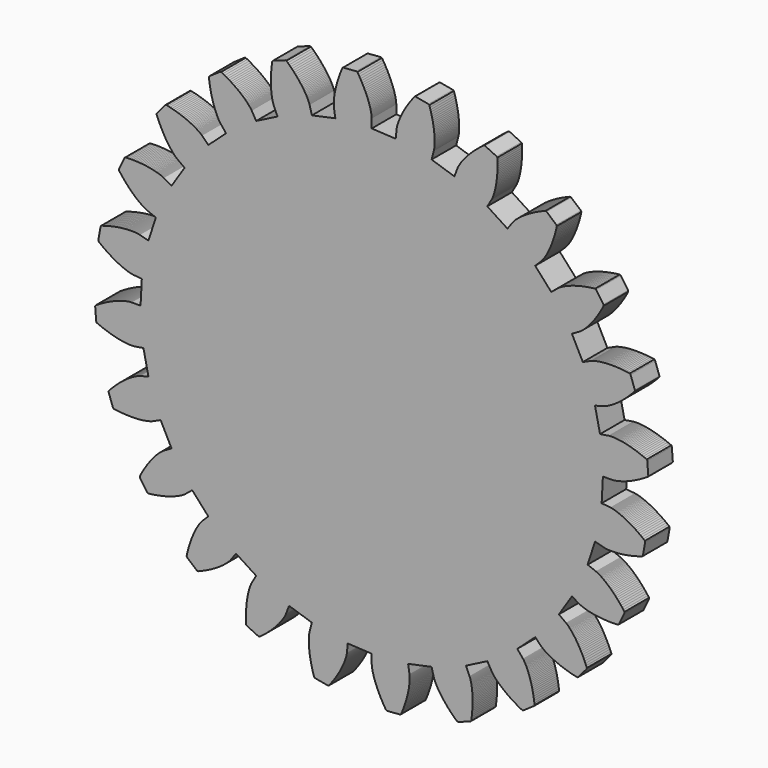
from build123d import *

# Parameters (mm, degrees)
F1_DEPTH = 6.35


with BuildPart() as f1:
    # F0 (on Front) → F1 (new body)
    with BuildSketch(Plane.XZ):
        Polygon((47.587992, -4.958258), (47.845548, 7.6e-05), (49.75131, 7.6e-05), (49.778742, 0.001346), (49.817604, 0.00414), (49.86688, 0.006934), (49.927586, 0.012268), (49.998198, 0.01938), (50.077954, 0.027508), (50.168886, 0.039954), (50.26947, 0.05367), (50.38123, 0.071704), (50.502134, 0.092532), (50.633198, 0.11717), (50.775184, 0.146126), (50.925298, 0.177876), (51.086842, 0.214706), (51.25753, 0.257632), (51.436854, 0.305892), (51.626846, 0.35847), (51.82522, 0.416382), (52.033246, 0.480898), (52.249654, 0.552526), (52.475714, 0.629742), (52.711426, 0.713562), (52.953742, 0.804748), (53.205964, 0.904062), (53.465298, 1.00998), (53.733776, 1.124534), (54.00962, 1.246962), (54.293084, 1.378026), (54.584168, 1.517218), (54.883126, 1.666062), (55.188942, 1.823034), (55.50187, 1.989912), (55.821402, 2.166442), (56.146776, 2.35237), (56.480532, 2.549474), (56.818098, 2.75623), (57.162268, 2.973908), (57.238214, 3.185998), (57.02587, 5.859348), (56.918682, 6.056452), (56.543524, 6.217742), (56.177002, 6.367856), (55.818862, 6.509842), (55.467326, 6.642176), (55.124426, 6.766382), (54.78813, 6.881952), (54.461486, 6.989648), (54.143224, 7.090232), (53.834614, 7.180656), (53.532608, 7.266508), (53.242032, 7.34347), (52.95933, 7.414082), (52.685264, 7.478598), (52.420596, 7.53651), (52.167104, 7.587564), (51.92174, 7.634554), (51.686282, 7.675702), (51.461492, 7.711262), (51.245084, 7.741742), (51.039852, 7.768158), (50.844018, 7.791526), (50.659614, 7.809306), (50.484354, 7.824546), (50.319254, 7.835468), (50.164568, 7.84512), (50.021312, 7.850708), (49.887708, 7.855026), (49.765026, 7.856296), (49.651996, 7.855026), (49.550142, 7.853502), (49.45921, 7.850708), (49.37793, 7.84639), (49.307826, 7.842326), (49.24712, 7.838262), (49.19886, 7.834198), (49.160252, 7.82988), (49.131296, 7.82734), (49.113262, 7.824546), (47.250426, 7.526858), (46.215376, 12.383084), (48.038334, 12.872034), (48.055098, 12.876352), (48.08253, 12.886004), (48.119614, 12.89718), (48.166604, 12.913436), (48.222992, 12.934264), (48.289286, 12.958902), (48.363708, 12.987858), (48.449052, 13.022402), (48.543032, 13.06228), (48.646156, 13.107746), (48.757662, 13.160324), (48.877804, 13.218236), (49.00709, 13.281482), (49.145012, 13.353364), (49.289792, 13.430326), (49.44397, 13.515924), (49.60526, 13.608126), (49.774932, 13.707186), (49.951208, 13.816152), (50.135612, 13.931976), (50.327382, 14.057452), (50.525756, 14.189786), (50.729718, 14.331518), (50.941808, 14.483156), (51.15847, 14.644446), (51.382752, 14.813864), (51.611606, 14.992934), (51.846048, 15.18318), (52.08684, 15.382824), (52.332458, 15.592374), (52.581886, 15.812846), (52.836648, 16.04424), (53.095982, 16.287064), (53.359126, 16.540556), (53.625064, 16.805224), (53.894812, 17.080814), (54.169386, 17.367326), (54.444976, 17.666284), (54.462756, 17.891074), (53.567152, 20.418374), (53.411196, 20.582458), (53.00759, 20.64037), (52.614906, 20.69117), (52.231874, 20.735112), (51.85824, 20.772704), (51.494512, 20.80293), (51.140436, 20.827568), (50.797282, 20.847126), (50.46378, 20.860842), (50.141454, 20.87024), (49.828526, 20.873034), (49.526774, 20.873034), (49.23569, 20.867446), (48.95502, 20.859318), (48.684764, 20.847126), (48.425684, 20.830362), (48.176256, 20.812582), (47.939274, 20.790484), (47.71169, 20.766862), (47.495536, 20.740954), (47.290304, 20.714792), (47.09574, 20.685836), (46.912352, 20.655356), (46.73887, 20.62386), (46.57631, 20.59211), (46.426196, 20.56163), (46.28548, 20.52988), (46.15467, 20.49813), (46.036052, 20.468158), (45.92734, 20.439202), (45.829296, 20.409992), (45.741158, 20.38383), (45.663942, 20.359192), (45.597902, 20.33684), (45.541514, 20.31779), (45.494524, 20.30001), (45.457186, 20.28604), (45.431024, 20.276642), (45.414514, 20.26953), (43.69214, 19.500418), (41.434842, 23.922812), (43.070602, 24.866676), (43.085842, 24.876582), (43.10921, 24.891568), (43.14223, 24.912142), (43.182108, 24.939574), (43.231892, 24.974118), (43.289804, 25.01552), (43.354574, 25.06378), (43.427726, 25.118898), (43.507482, 25.180874), (43.59562, 25.252502), (43.689346, 25.331242), (43.791454, 25.417856), (43.898896, 25.512852), (44.01472, 25.617754), (44.134354, 25.729514), (44.261354, 25.851942), (44.393434, 25.982752), (44.531102, 26.123468), (44.673342, 26.273836), (44.822186, 26.433602), (44.97357, 26.60302), (45.130796, 26.783614), (45.292086, 26.97386), (45.457186, 27.174774), (45.625334, 27.385848), (45.797546, 27.60759), (45.972552, 27.840508), (46.150352, 28.084348), (46.330946, 28.339364), (46.513064, 28.606826), (46.697468, 28.883686), (46.883396, 29.172992), (47.071102, 29.474998), (47.259824, 29.786402), (47.448546, 30.111268), (47.638792, 30.447818), (47.827514, 30.796306), (48.01776, 31.15597), (47.976358, 31.377712), (46.456676, 33.587004), (46.263636, 33.704098), (45.859776, 33.655584), (45.467092, 33.603514), (45.08533, 33.547126), (44.71449, 33.48642), (44.354826, 33.421396), (44.007608, 33.354086), (43.670042, 33.283982), (43.344668, 33.21083), (43.030724, 33.136408), (42.728718, 33.059192), (42.436618, 32.980452), (42.156964, 32.900696), (41.888232, 32.819162), (41.630676, 32.736612), (41.384042, 32.654062), (41.14833, 32.572782), (40.92354, 32.490232), (40.711196, 32.408698), (40.508758, 32.327418), (40.317242, 32.247408), (40.136648, 32.169176), (39.96723, 32.09323), (39.808734, 32.018808), (39.65989, 31.945656), (39.521968, 31.876568), (39.393952, 31.809258), (39.276858, 31.745758), (39.169162, 31.685052), (39.072896, 31.628664), (38.984758, 31.57634), (38.907542, 31.52808), (38.838708, 31.483884), (38.779526, 31.44553), (38.729742, 31.41251), (38.689864, 31.383554), (38.658114, 31.361202), (38.63627, 31.343676), (38.62103, 31.332246), (37.155958, 30.143018), (33.832114, 33.832114), (35.166376, 35.166376), (35.178568, 35.180092), (35.197618, 35.200412), (35.224034, 35.229368), (35.257054, 35.266706), (35.295662, 35.312426), (35.339858, 35.36729), (35.390658, 35.43079), (35.44603, 35.502418), (35.507752, 35.583698), (35.574046, 35.67463), (35.645674, 35.775214), (35.720096, 35.885704), (35.799852, 36.005592), (35.88418, 36.136402), (35.971048, 36.27534), (36.06198, 36.427232), (36.155452, 36.586998), (36.252226, 36.75921), (36.351286, 36.941074), (36.45314, 37.134114), (36.556518, 37.336552), (36.66142, 37.551436), (36.767592, 37.777496), (36.87478, 38.013208), (36.982476, 38.261112), (37.091442, 38.520192), (37.200154, 38.790448), (37.30912, 39.072896), (37.416562, 39.364996), (37.524004, 39.669542), (37.630176, 39.986534), (37.734824, 40.312924), (37.838202, 40.652014), (37.940056, 41.003296), (38.037846, 41.366008), (38.13462, 41.739134), (38.228092, 42.125214), (38.317754, 42.521962), (38.219964, 42.725924), (36.180598, 44.466586), (35.963936, 44.530086), (35.586492, 44.378448), (35.21997, 44.22681), (34.86564, 44.072632), (34.52401, 43.917946), (34.193302, 43.763768), (33.874786, 43.607812), (33.567446, 43.452364), (33.272552, 43.297932), (32.988834, 43.143754), (32.715784, 42.991862), (32.455434, 42.840732), (32.204736, 42.690364), (31.96623, 42.54152), (31.739154, 42.39674), (31.522492, 42.25323), (31.31599, 42.112768), (31.120156, 41.974846), (30.935498, 41.841242), (30.761762, 41.710432), (30.597932, 41.583686), (30.443754, 41.461004), (30.298974, 41.34391), (30.16537, 41.23088), (30.03964, 41.121914), (29.92534, 41.018536), (29.819168, 40.92227), (29.721632, 40.829814), (29.634764, 40.742946), (29.554754, 40.664714), (29.483126, 40.590292), (29.420896, 40.523998), (29.366032, 40.464562), (29.319042, 40.410968), (29.280434, 40.365502), (29.248684, 40.328164), (29.224046, 40.297684), (29.207536, 40.27584), (29.196614, 40.260854), (28.088412, 38.732536), (23.922812, 41.434842), (24.866676, 43.070602), (24.875058, 43.085842), (24.888774, 43.11048), (24.905284, 43.145024), (24.927382, 43.19049), (24.95329, 43.244084), (24.982246, 43.309108), (25.013996, 43.382006), (25.050064, 43.467604), (25.088418, 43.561076), (25.128296, 43.667248), (25.171476, 43.781548), (25.215418, 43.908548), (25.26063, 44.044946), (25.30889, 44.19252), (25.35588, 44.350762), (25.405664, 44.51891), (25.45367, 44.69798), (25.503454, 44.889496), (25.551714, 45.090664), (25.59972, 45.303008), (25.64671, 45.526274), (25.693446, 45.760462), (25.737642, 46.005826), (25.780314, 46.262112), (25.820192, 46.529574), (25.85753, 46.807958), (25.89309, 47.097264), (25.92484, 47.397492), (25.953796, 47.707626), (25.978942, 48.029952), (25.999262, 48.363708), (26.016026, 48.706608), (26.026948, 49.060684), (26.033806, 49.425936), (26.036854, 49.80084), (26.032536, 50.18692), (26.022884, 50.583668), (26.006374, 50.990068), (25.860324, 51.16228), (23.438942, 52.315948), (23.213136, 52.321536), (22.887762, 52.077442), (22.573564, 51.835126), (22.271812, 51.595096), (21.981236, 51.35659), (21.701582, 51.122402), (21.43412, 50.889484), (21.17758, 50.66063), (20.93247, 50.434824), (20.698282, 50.211558), (20.474762, 49.99388), (20.261402, 49.780012), (20.058456, 49.57097), (19.86694, 49.365484), (19.683806, 49.165586), (19.511848, 48.971276), (19.349034, 48.782554), (19.196126, 48.59942), (19.05287, 48.42162), (18.917742, 48.250424), (18.79252, 48.086848), (18.675426, 47.928098), (18.566206, 47.776714), (18.465876, 47.633204), (18.37342, 47.495536), (18.289346, 47.36752), (18.21213, 47.244584), (18.142026, 47.131808), (18.078526, 47.025636), (18.023408, 46.927592), (17.973624, 46.838184), (17.929682, 46.758174), (17.892598, 46.686546), (17.862118, 46.623046), (17.83621, 46.569452), (17.815382, 46.523986), (17.798618, 46.487918), (17.787696, 46.46201), (17.780584, 46.445246), (17.105452, 44.68274), (12.383084, 46.215376), (12.872034, 48.038334), (12.876352, 48.056368), (12.88194, 48.084054), (12.890068, 48.120884), (12.89972, 48.170668), (12.910896, 48.22858), (12.921818, 48.298684), (12.934264, 48.378948), (12.94671, 48.46988), (12.958902, 48.570464), (12.970332, 48.68197), (12.981254, 48.804652), (12.992176, 48.938256), (13.000558, 49.081512), (13.008686, 49.23569), (13.014274, 49.401298), (13.016814, 49.577574), (13.018084, 49.763756), (13.015798, 49.96086), (13.01148, 50.167362), (13.001574, 50.38504), (12.989382, 50.612624), (12.974142, 50.85113), (12.953568, 51.099034), (12.92766, 51.358114), (12.89718, 51.626846), (12.862636, 51.90523), (12.821234, 52.193012), (12.774498, 52.492224), (12.720904, 52.799564), (12.661468, 53.117826), (12.596698, 53.44447), (12.523546, 53.780512), (12.44252, 54.12519), (12.355398, 54.47952), (12.259132, 54.843248), (12.155754, 55.215358), (12.044248, 55.595596), (11.922836, 55.983962), (11.736908, 56.112486), (9.100642, 56.599912), (8.88144, 56.546318), (8.629218, 56.226786), (8.387918, 55.911064), (8.158048, 55.60093), (7.938846, 55.296384), (7.73082, 54.996156), (7.532446, 54.702786), (7.34347, 54.414496), (7.165924, 54.133318), (6.996252, 53.857982), (6.837756, 53.588996), (6.686118, 53.327376), (6.545656, 53.07236), (6.413576, 52.825726), (6.287846, 52.586204), (6.172276, 52.353032), (6.06458, 52.128496), (5.963996, 51.911834), (5.870524, 51.702792), (5.784926, 51.50264), (5.70644, 51.311124), (5.633542, 51.12799), (5.568518, 50.954508), (5.507812, 50.789154), (5.454218, 50.633198), (5.405958, 50.485624), (5.363286, 50.347956), (5.324932, 50.22121), (5.291658, 50.102592), (5.262702, 49.99388), (5.238064, 49.89482), (5.217236, 49.805158), (5.200726, 49.726418), (5.185486, 49.657584), (5.174564, 49.598402), (5.166436, 49.550142), (5.15653, 49.482832), (5.153736, 49.464798), (4.958156, 47.587992), (7.6e-05, 47.845548), (7.6e-05, 49.75131), (-0.001448, 49.778742), (-0.004242, 49.817604), (-0.007036, 49.86688), (-0.01237, 49.927586), (-0.019482, 49.998198), (-0.02761, 50.077954), (-0.039802, 50.168886), (-0.053518, 50.26947), (-0.071552, 50.38123), (-0.09238, 50.502134), (-0.117018, 50.633198), (-0.145974, 50.775184), (-0.177724, 50.925298), (-0.214808, 51.086842), (-0.25748, 51.25753), (-0.305994, 51.436854), (-0.358318, 51.626846), (-0.41623, 51.82522), (-0.480746, 52.033246), (-0.552374, 52.249654), (-0.629844, 52.475714), (-0.713664, 52.711426), (-0.804596, 52.953742), (-0.90391, 53.205964), (-1.010082, 53.465298), (-1.124382, 53.733776), (-1.247064, 54.00962), (-1.377874, 54.293084), (-1.51732, 54.584168), (-1.666164, 54.883126), (-1.823136, 55.188942), (-1.990014, 55.50187), (-2.166544, 55.821402), (-2.352218, 56.146776), (-2.549576, 56.480532), (-2.755824, 56.818098), (-2.97401, 57.162268), (-3.185846, 57.238214), (-5.859196, 57.02587), (-6.056554, 56.918682), (-6.21759, 56.543524), (-6.367958, 56.177002), (-6.509944, 55.818862), (-6.642024, 55.467326), (-6.76623, 55.124426), (-6.882054, 54.78813), (-6.989242, 54.461486), (-7.09008, 54.143224), (-7.180758, 53.834614), (-7.26661, 53.532608), (-7.343318, 53.242032), (-7.41393, 52.95933), (-7.478446, 52.685264), (-7.536358, 52.420596), (-7.587666, 52.167104), (-7.634402, 51.92174), (-7.675804, 51.686282), (-7.711364, 51.461492), (-7.741844, 51.245084), (-7.76826, 51.039852), (-7.791374, 50.844018), (-7.809408, 50.659614), (-7.824648, 50.484354), (-7.83557, 50.319254), (-7.844968, 50.164568), (-7.85081, 50.021312), (-7.854874, 49.887708), (-7.856398, 49.765026), (-7.854874, 49.651996), (-7.853604, 49.550142), (-7.85081, 49.45921), (-7.846492, 49.37793), (-7.842174, 49.307826), (-7.838364, 49.24712), (-7.834046, 49.19886), (-7.829982, 49.160252), (-7.827188, 49.131296), (-7.824648, 49.113262), (-7.52696, 47.250426), (-12.383186, 46.215376), (-12.872136, 48.038334), (-12.876454, 48.055098), (-12.885852, 48.08253), (-12.897282, 48.119614), (-12.913538, 48.166604), (-12.934366, 48.222992), (-12.959004, 48.289286), (-12.98796, 48.363708), (-13.022504, 48.449052), (-13.062382, 48.543032), (-13.107848, 48.646156), (-13.160426, 48.757662), (-13.218338, 48.877804), (-13.28133, 49.00709), (-13.353466, 49.145012), (-13.430174, 49.289792), (-13.515518, 49.44397), (-13.607974, 49.60526), (-13.707288, 49.774932), (-13.816254, 49.951208), (-13.931824, 50.135612), (-14.057554, 50.327382), (-14.189888, 50.525756), (-14.33162, 50.729718), (-14.483258, 50.941808), (-14.644548, 51.15847), (-14.813966, 51.382752), (-14.993036, 51.611606), (-15.183282, 51.846048), (-15.382926, 52.08684), (-15.592476, 52.332458), (-15.812948, 52.581886), (-16.044342, 52.836648), (-16.287166, 53.095982), (-16.540658, 53.359126), (-16.805326, 53.625064), (-17.080916, 53.894812), (-17.367174, 54.169386), (-17.666386, 54.444976), (-17.891176, 54.462756), (-20.418476, 53.567152), (-20.58256, 53.411196), (-20.640218, 53.00759), (-20.691018, 52.614906), (-20.735214, 52.231874), (-20.772552, 51.85824), (-20.803032, 51.494512), (-20.82767, 51.140436), (-20.846974, 50.797282), (-20.860944, 50.46378), (-20.870342, 50.141454), (-20.873136, 49.828526), (-20.873136, 49.526774), (-20.867548, 49.23569), (-20.85942, 48.95502), (-20.846974, 48.684764), (-20.830464, 48.425684), (-20.81243, 48.176256), (-20.790586, 47.939274), (-20.766964, 47.71169), (-20.740802, 47.495536), (-20.714894, 47.290304), (-20.685938, 47.09574), (-20.655458, 46.912352), (-20.623708, 46.73887), (-20.591958, 46.57631), (-20.561732, 46.426196), (-20.529982, 46.28548), (-20.498232, 46.15467), (-20.46826, 46.036052), (-20.438796, 45.92734), (-20.410094, 45.829296), (-20.383932, 45.741158), (-20.35904, 45.663942), (-20.336942, 45.597902), (-20.317892, 45.541514), (-20.299858, 45.494524), (-20.286142, 45.457186), (-20.27649, 45.431024), (-20.269632, 45.414514), (-19.50052, 43.69214), (-23.92266, 41.434842), (-24.866778, 43.070602), (-24.87643, 43.085842), (-24.891416, 43.10921), (-24.912244, 43.14223), (-24.939676, 43.182108), (-24.97422, 43.231892), (-25.015622, 43.289804), (-25.063882, 43.354574), (-25.119, 43.427726), (-25.180976, 43.507482), (-25.252604, 43.59562), (-25.33109, 43.689346), (-25.417958, 43.791454), (-25.512954, 43.898896), (-25.617856, 44.01472), (-25.729362, 44.134354), (-25.852044, 44.261354), (-25.982854, 44.393434), (-26.12357, 44.531102), (-26.273684, 44.673342), (-26.43345, 44.822186), (-26.603122, 44.97357), (-26.783462, 45.130796), (-26.973708, 45.292086), (-27.174876, 45.457186), (-27.385696, 45.625334), (-27.607692, 45.797546), (-27.84061, 45.972552), (-28.08445, 46.150352), (-28.339466, 46.330946), (-28.606674, 46.513064), (-28.883788, 46.697468), (-29.173094, 46.883396), (-29.474846, 47.071102), (-29.78625, 47.259824), (-30.111624, 47.448546), (-30.447666, 47.638792), (-30.796408, 47.827514), (-31.156072, 48.01776), (-31.377814, 47.976358), (-33.586928, 46.456676), (-33.704073, 46.263636), (-33.655813, 45.859776), (-33.603463, 45.467092), (-33.546948, 45.08533), (-33.486344, 44.71449), (-33.421574, 44.354826), (-33.354061, 44.007608), (-33.283779, 43.670042), (-33.210729, 43.344668), (-33.136332, 43.030724), (-33.059141, 42.728718), (-32.980605, 42.436618), (-32.900671, 42.156964), (-32.81934, 41.888232), (-32.736688, 41.630676), (-32.654011, 41.384042), (-32.572681, 41.14833), (-32.490029, 40.92354), (-32.408724, 40.711196), (-32.327393, 40.508758), (-32.247484, 40.317242), (-32.168922, 40.136648), (-32.093154, 39.96723), (-32.018732, 39.808734), (-31.945758, 39.65989), (-31.87667, 39.521968), (-31.80936, 39.393952), (-31.74586, 39.276858), (-31.685154, 39.169162), (-31.628766, 39.072896), (-31.576442, 38.984758), (-31.528182, 38.907542), (-31.483986, 38.838708), (-31.445378, 38.779526), (-31.412358, 38.729742), (-31.383402, 38.689864), (-31.361304, 38.658114), (-31.343524, 38.63627), (-31.332348, 38.62103), (-30.14312, 37.155958), (-33.832216, 33.832114), (-35.166173, 35.166376), (-35.179965, 35.178568), (-35.20059, 35.197618), (-35.229571, 35.224034), (-35.266732, 35.257054), (-35.312248, 35.295662), (-35.367366, 35.339858), (-35.430739, 35.390658), (-35.502393, 35.44603), (-35.583724, 35.507752), (-35.674656, 35.574046), (-35.775265, 35.645674), (-35.885526, 35.720096), (-36.005389, 35.799852), (-36.136301, 35.88418), (-36.275467, 35.971048), (-36.427054, 36.06198), (-36.586897, 36.155452), (-36.759159, 36.252226), (-36.941074, 36.351286), (-37.133987, 36.45314), (-37.336552, 36.556518), (-37.551538, 36.66142), (-37.777522, 36.767592), (-38.013183, 36.87478), (-38.261239, 36.982476), (-38.520319, 37.091442), (-38.790397, 37.200154), (-39.072896, 37.30912), (-39.365022, 37.416562), (-39.669593, 37.524004), (-39.98656, 37.630176), (-40.313127, 37.734824), (-40.652141, 37.838202), (-41.00355, 37.940056), (-41.365957, 38.037846), (-41.739414, 38.13462), (-42.125265, 38.228092), (-42.52214, 38.317754), (-42.726102, 38.219964), (-44.466561, 36.180598), (-44.529959, 35.963936), (-44.378372, 35.586492), (-44.226759, 35.21997), (-44.072429, 34.86564), (-43.918099, 34.52401), (-43.763743, 34.193302), (-43.608041, 33.874786), (-43.452313, 33.567446), (-43.297983, 33.272552), (-43.143627, 32.988834), (-42.99204, 32.715784), (-42.840453, 32.455434), (-42.690237, 32.204736), (-42.541419, 31.96623), (-42.39674, 31.739154), (-42.253408, 31.522492), (-42.112844, 31.31599), (-41.975049, 31.120156), (-41.841395, 30.935498), (-41.710483, 30.761762), (-41.583686, 30.597932), (-41.46103, 30.443754), (-41.34391, 30.298974), (-41.230906, 30.16537), (-41.122041, 30.03964), (-41.018689, 29.92534), (-40.922219, 29.819168), (-40.829916, 29.721632), (-40.743099, 29.634764), (-40.664536, 29.554754), (-40.590114, 29.483126), (-40.523973, 29.420896), (-40.464715, 29.366032), (-40.410994, 29.319042), (-40.365502, 29.280434), (-40.328291, 29.248684), (-40.297989, 29.224046), (-40.275942, 29.207536), (-40.260778, 29.196614), (-38.732536, 28.088412), (-41.434842, 23.922812), (-43.070577, 24.866676), (-43.085741, 24.875058), (-43.110556, 24.888774), (-43.145024, 24.905284), (-43.19049, 24.927382), (-43.244211, 24.95329), (-43.308981, 24.982246), (-43.382032, 25.013996), (-43.467452, 25.050064), (-43.561178, 25.088418), (-43.667274, 25.128296), (-43.781675, 25.171476), (-43.908421, 25.215418), (-44.04487, 25.26063), (-44.192317, 25.30889), (-44.350762, 25.35588), (-44.51891, 25.405664), (-44.698056, 25.45367), (-44.889598, 25.503454), (-45.090791, 25.551714), (-45.303034, 25.59972), (-45.526274, 25.64671), (-45.760513, 25.693446), (-46.005826, 25.737642), (-46.262112, 25.780314), (-46.529447, 25.820192), (-46.807831, 25.85753), (-47.097213, 25.89309), (-47.397645, 25.92484), (-47.707702, 25.953796), (-48.03013, 25.978942), (-48.363632, 25.999262), (-48.706761, 26.016026), (-49.060913, 26.026948), (-49.426114, 26.033806), (-49.800942, 26.036854), (-50.186768, 26.032536), (-50.583643, 26.022884), (-50.990195, 26.006374), (-51.162407, 25.860324), (-52.315847, 23.438942), (-52.321358, 23.213136), (-52.077442, 22.887762), (-51.834923, 22.573564), (-51.595147, 22.271812), (-51.356717, 21.981236), (-51.122478, 21.701582), (-50.889586, 21.43412), (-50.660833, 21.17758), (-50.434824, 20.93247), (-50.211584, 20.698282), (-49.993829, 20.474762), (-49.780266, 20.261402), (-49.570792, 20.058456), (-49.365484, 19.86694), (-49.165662, 19.683806), (-48.971352, 19.511848), (-48.782554, 19.349034), (-48.599268, 19.196126), (-48.421519, 19.05287), (-48.250627, 18.917742), (-48.086645, 18.79252), (-47.928174, 18.675426), (-47.776587, 18.566206), (-47.633255, 18.465876), (-47.49546, 18.37342), (-47.367317, 18.289346), (-47.244686, 18.21213), (-47.131681, 18.142026), (-47.02556, 18.078526), (-46.927719, 18.023408), (-46.838133, 17.973624), (-46.758225, 17.929682), (-46.686546, 17.892598), (-46.623199, 17.862118), (-46.569427, 17.83621), (-46.523961, 17.815382), (-46.488121, 17.798618), (-46.461934, 17.787696), (-46.445399, 17.780584), (-44.682918, 17.105452), (-46.215275, 12.383084), (-48.038436, 12.872034), (-48.056343, 12.876352), (-48.083902, 12.88194), (-48.121087, 12.890068), (-48.170719, 12.89972), (-48.22858, 12.910896), (-48.298887, 12.921818), (-48.378796, 12.934264), (-48.469728, 12.94671), (-48.570337, 12.958902), (-48.68197, 12.970332), (-48.804601, 12.981254), (-48.938282, 12.992176), (-49.081588, 13.000558), (-49.235944, 13.008686), (-49.401324, 13.014274), (-49.577701, 13.016814), (-49.763731, 13.018084), (-49.960784, 13.015798), (-50.167489, 13.01148), (-50.385218, 13.001574), (-50.612573, 12.989382), (-50.850978, 12.974142), (-51.09906, 12.953568), (-51.358114, 12.92766), (-51.626821, 12.89718), (-51.905179, 12.862636), (-52.19319, 12.821234), (-52.49225, 12.774498), (-52.799564, 12.720904), (-53.117877, 12.661468), (-53.44447, 12.596698), (-53.78069, 12.523546), (-54.125216, 12.44252), (-54.479368, 12.355398), (-54.843172, 12.259132), (-55.215231, 12.155754), (-55.595571, 12.044248), (-55.984191, 11.922836), (-56.112334, 11.736908), (-56.600166, 9.100642), (-56.54642, 8.88144), (-56.22671, 8.629218), (-55.91114, 8.387918), (-55.601083, 8.158048), (-55.296537, 7.938846), (-54.996131, 7.73082), (-54.702608, 7.532446), (-54.414598, 7.34347), (-54.133471, 7.165924), (-53.857881, 6.996252), (-53.589149, 6.837756), (-53.327351, 6.686118), (-53.072386, 6.545656), (-52.825726, 6.413576), (-52.58595, 6.287846), (-52.353032, 6.172276), (-52.12842, 6.06458), (-51.912063, 5.963996), (-51.702614, 5.870524), (-51.502818, 5.784926), (-51.311251, 5.70644), (-51.12799, 5.633542), (-50.954356, 5.568518), (-50.788976, 5.507812), (-50.633249, 5.454218), (-50.485827, 5.405958), (-50.348007, 5.363286), (-50.221236, 5.324932), (-50.102719, 5.291658), (-49.993829, 5.262702), (-49.894642, 5.238064), (-49.805082, 5.217236), (-49.726494, 5.200726), (-49.65761, 5.185486), (-49.598351, 5.174564), (-49.550117, 5.166436), (-49.482604, 5.15653), (-49.464671, 5.153736), (-47.587789, 4.958156), (-47.845497, 7.6e-05), (-49.75131, 7.6e-05), (-49.778895, -0.001448), (-49.817452, -0.004242), (-49.867083, -0.007036), (-49.927688, -0.01237), (-49.997995, -0.019482), (-50.077903, -0.02761), (-50.168861, -0.039802), (-50.26947, -0.053518), (-50.381078, -0.071552), (-50.502337, -0.09238), (-50.633249, -0.117018), (-50.77521, -0.145974), (-50.925425, -0.177724), (-51.086639, -0.214808), (-51.25753, -0.25748), (-51.436676, -0.305994), (-51.626821, -0.358318), (-51.825246, -0.41623), (-52.033348, -0.480746), (-52.249705, -0.552374), (-52.475714, -0.629844), (-52.71135, -0.713664), (-52.953895, -0.804596), (-53.206066, -0.90391), (-53.465146, -1.010082), (-53.733852, -1.124382), (-54.009468, -1.247064), (-54.293338, -1.377874), (-54.584092, -1.51732), (-54.883126, -1.666164), (-55.189069, -1.823136), (-55.50187, -1.990014), (-55.82158, -2.166544), (-56.146802, -2.352218), (-56.480278, -2.549576), (-56.817895, -2.755824), (-57.162421, -2.97401), (-57.238214, -3.185846), (-57.025997, -5.859196), (-56.918504, -6.056554), (-56.543677, -6.21759), (-56.177104, -6.367958), (-55.818811, -6.509944), (-55.467428, -6.642024), (-55.124299, -6.76623), (-54.788054, -6.882054), (-54.461461, -6.989242), (-54.143123, -7.09008), (-53.834462, -7.180758), (-53.532659, -7.26661), (-53.241905, -7.343318), (-52.959406, -7.41393), (-52.685137, -7.478446), (-52.420571, -7.536358), (-52.167028, -7.587666), (-51.92174, -7.634402), (-51.686079, -7.675804), (-51.461467, -7.711364), (-51.24511, -7.741844), (-51.039801, -7.76826), (-50.844094, -7.791374), (-50.659462, -7.809408), (-50.484456, -7.824648), (-50.319076, -7.83557), (-50.164721, -7.844968), (-50.021439, -7.85081), (-49.887759, -7.854874), (-49.765102, -7.856398), (-49.652098, -7.854874), (-49.550117, -7.853604), (-49.459159, -7.85081), (-49.377854, -7.846492), (-49.307572, -7.842174), (-49.246968, -7.838364), (-49.198708, -7.834046), (-49.160151, -7.829982), (-49.131195, -7.827188), (-49.113262, -7.824648), (-47.250172, -7.52696), (-46.215275, -12.383186), (-48.038436, -12.872136), (-48.054946, -12.876454), (-48.08253, -12.885852), (-48.119716, -12.897282), (-48.166604, -12.913538), (-48.223068, -12.934366), (-48.28921, -12.959004), (-48.363632, -12.98796), (-48.449052, -13.022504), (-48.542804, -13.062382), (-48.646131, -13.107848), (-48.757738, -13.160426), (-48.877652, -13.218338), (-49.007192, -13.28133), (-49.144987, -13.353466), (-49.289665, -13.430174), (-49.443996, -13.515518), (-49.60526, -13.607974), (-49.774729, -13.707288), (-49.951132, -13.816254), (-50.13579, -13.931824), (-50.327357, -14.057554), (-50.525782, -14.189888), (-50.729744, -14.33162), (-50.941935, -14.483258), (-51.158292, -14.644548), (-51.382905, -14.813966), (-51.611682, -14.993036), (-51.845921, -15.183282), (-52.087094, -15.382926), (-52.332382, -15.592476), (-52.58181, -15.812948), (-52.836724, -16.044342), (-53.095804, -16.287166), (-53.359025, -16.540658), (-53.624988, -16.805326), (-53.895092, -17.080916), (-54.16931, -17.367174), (-54.444925, -17.666386), (-54.462832, -17.891176), (-53.567101, -20.418476), (-53.411374, -20.58256), (-53.007616, -20.640218), (-52.614881, -20.691018), (-52.231798, -20.735214), (-51.858342, -20.772552), (-51.494512, -20.803032), (-51.14036, -20.82767), (-50.797257, -20.846974), (-50.46378, -20.860944), (-50.141302, -20.870342), (-49.828501, -20.873136), (-49.526698, -20.873136), (-49.235944, -20.867548), (-48.954817, -20.85942), (-48.684713, -20.846974), (-48.425633, -20.830464), (-48.176231, -20.81243), (-47.939198, -20.790586), (-47.711817, -20.766964), (-47.49546, -20.740802), (-47.290152, -20.714894), (-47.095842, -20.685938), (-46.912581, -20.655458), (-46.738946, -20.623708), (-46.57631, -20.591958), (-46.42612, -20.561732), (-46.285556, -20.529982), (-46.154619, -20.498232), (-46.036128, -20.46826), (-45.927264, -20.438796), (-45.829449, -20.410094), (-45.741234, -20.383932), (-45.664069, -20.35904), (-45.597902, -20.336942), (-45.541387, -20.317892), (-45.49455, -20.299858), (-45.457364, -20.286142), (-45.431151, -20.27649), (-45.414641, -20.269632), (-43.692089, -19.50052), (-41.434842, -23.92266), (-43.070577, -24.866778), (-43.085741, -24.87643), (-43.109159, -24.891416), (-43.142256, -24.912244), (-43.182184, -24.939676), (-43.231841, -24.97422), (-43.289677, -25.015622), (-43.354447, -25.063882), (-43.427523, -25.119), (-43.507431, -25.180976), (-43.59562, -25.252604), (-43.689321, -25.33109), (-43.791302, -25.417958), (-43.898795, -25.512954), (-44.014542, -25.617856), (-44.134456, -25.729362), (-44.261202, -25.852044), (-44.393485, -25.982854), (-44.531331, -26.12357), (-44.673241, -26.273684), (-44.822085, -26.43345), (-44.973672, -26.603122), (-45.130771, -26.783462), (-45.291985, -26.973708), (-45.457364, -27.174876), (-45.625461, -27.385696), (-45.797724, -27.607692), (-45.97273, -27.84061), (-46.150505, -28.08445), (-46.331022, -28.339466), (-46.512937, -28.606674), (-46.697595, -28.883788), (-46.883599, -29.173094), (-47.071051, -29.474846), (-47.259824, -29.78625), (-47.448622, -30.111624), (-47.638792, -30.447666), (-47.827565, -30.796408), (-48.01776, -31.156072), (-47.976409, -31.377814), (-46.456422, -33.586928), (-46.263509, -33.704073), (-45.859751, -33.655813), (-45.466991, -33.603463), (-45.085279, -33.546948), (-44.714592, -33.486344), (-44.354928, -33.421574), (-44.007659, -33.354061), (-43.670042, -33.283779), (-43.344821, -33.210729), (-43.030648, -33.136332), (-42.728845, -33.059141), (-42.436694, -32.980605), (-42.156964, -32.900671), (-41.888232, -32.81934), (-41.630549, -32.736688), (-41.383864, -32.654011), (-41.148229, -32.572681), (-40.923616, -32.490029), (-40.711374, -32.408724), (-40.508809, -32.327393), (-40.317293, -32.247484), (-40.136724, -32.168922), (-39.967256, -32.093154), (-39.80876, -32.018732), (-39.659966, -31.945758), (-39.522121, -31.87667), (-39.394003, -31.80936), (-39.276833, -31.74586), (-39.16934, -31.685154), (-39.072896, -31.628766), (-38.984707, -31.576442), (-38.907542, -31.528182), (-38.838632, -31.483986), (-38.779399, -31.445378), (-38.729793, -31.412358), (-38.689813, -31.383402), (-38.658114, -31.361304), (-38.636067, -31.343524), (-38.620929, -31.332348), (-37.156034, -30.14312), (-33.832216, -33.832216), (-35.166173, -35.166173), (-35.178543, -35.179965), (-35.197847, -35.20059), (-35.22406, -35.229571), (-35.257105, -35.266732), (-35.295713, -35.312248), (-35.339807, -35.367366), (-35.390785, -35.430739), (-35.445929, -35.502393), (-35.507905, -35.583724), (-35.574046, -35.674656), (-35.645725, -35.775265), (-35.720122, -35.885526), (-35.800081, -36.005389), (-35.884104, -36.136301), (-35.970921, -36.275467), (-36.061904, -36.427054), (-36.155605, -36.586897), (-36.252048, -36.759159), (-36.351286, -36.941074), (-36.453242, -37.133987), (-36.556594, -37.336552), (-36.661344, -37.551538), (-36.767465, -37.777522), (-36.874907, -38.013183), (-36.9824, -38.261239), (-37.091264, -38.520319), (-37.200154, -38.790397), (-37.309019, -39.072896), (-37.416511, -39.365022), (-37.524004, -39.669593), (-37.6301, -39.98656), (-37.734824, -40.313127), (-37.838177, -40.652141), (-37.940158, -41.00355), (-38.037999, -41.365957), (-38.134468, -41.739414), (-38.228168, -42.125265), (-38.317754, -42.52214), (-38.219888, -42.726102), (-36.180395, -44.466561), (-35.964038, -44.529959), (-35.586467, -44.378372), (-35.219894, -44.226759), (-34.865742, -44.072429), (-34.52401, -43.918099), (-34.193277, -43.763743), (-33.874939, -43.608041), (-33.567624, -43.452313), (-33.27273, -43.297983), (-32.98886, -43.143627), (-32.716013, -42.99204), (-32.455561, -42.840453), (-32.204787, -42.690237), (-31.966332, -42.541419), (-31.739002, -42.39674), (-31.522594, -42.253408), (-31.315838, -42.112844), (-31.120258, -41.975049), (-30.9356, -41.841395), (-30.761864, -41.710483), (-30.598034, -41.583686), (-30.443602, -41.46103), (-30.298822, -41.34391), (-30.165218, -41.230906), (-30.039742, -41.122041), (-29.925442, -41.018689), (-29.81927, -40.922219), (-29.72148, -40.829916), (-29.634612, -40.743099), (-29.554856, -40.664536), (-29.483228, -40.590114), (-29.420998, -40.523973), (-29.366134, -40.464715), (-29.319144, -40.410994), (-29.280536, -40.365502), (-29.248786, -40.328291), (-29.224148, -40.297989), (-29.207638, -40.275942), (-29.196462, -40.260778), (-28.088514, -38.732536), (-23.92266, -41.434842), (-24.866778, -43.070577), (-24.874906, -43.085741), (-24.888876, -43.110556), (-24.905386, -43.145024), (-24.927484, -43.19049), (-24.953646, -43.244211), (-24.982348, -43.308981), (-25.014098, -43.382032), (-25.049912, -43.467452), (-25.08852, -43.561178), (-25.128652, -43.667274), (-25.171324, -43.781675), (-25.215266, -43.908421), (-25.260732, -44.04487), (-25.308992, -44.192317), (-25.355982, -44.350762), (-25.405512, -44.51891), (-25.453772, -44.698056), (-25.503302, -44.889598), (-25.551562, -45.090791), (-25.599822, -45.303034), (-25.646558, -45.526274), (-25.693548, -45.760513), (-25.737744, -46.005826), (-25.780416, -46.262112), (-25.820294, -46.529447), (-25.857632, -46.807831), (-25.893446, -47.097213), (-25.924942, -47.397645), (-25.953898, -47.707702), (-25.97879, -48.03013), (-25.999364, -48.363632), (-26.015874, -48.706761), (-26.02705, -49.060913), (-26.033908, -49.426114), (-26.036702, -49.800942), (-26.032638, -50.186768), (-26.022986, -50.583643), (-26.006222, -50.990195), (-25.860172, -51.162407), (-23.439044, -52.315847), (-23.212984, -52.321358), (-22.887864, -52.077442), (-22.573666, -51.834923), (-22.271914, -51.595147), (-21.981338, -51.356717), (-21.70143, -51.122478), (-21.433968, -50.889586), (-21.177682, -50.660833), (-20.932318, -50.434824), (-20.69813, -50.211584), (-20.474864, -49.993829), (-20.261504, -49.780266), (-20.058558, -49.570792), (-19.867042, -49.365484), (-19.683908, -49.165662), (-19.511696, -48.971352), (-19.349136, -48.782554), (-19.195974, -48.599268), (-19.052718, -48.421519), (-18.91759, -48.250627), (-18.792368, -48.086645), (-18.67502, -47.928174), (-18.566308, -47.776587), (-18.465724, -47.633255), (-18.373268, -47.49546), (-18.289448, -47.367317), (-18.212232, -47.244686), (-18.141874, -47.131681), (-18.078374, -47.02556), (-18.02351, -46.927719), (-17.973726, -46.838133), (-17.92953, -46.758225), (-17.892446, -46.686546), (-17.86222, -46.623199), (-17.836058, -46.569427), (-17.81523, -46.523961), (-17.79872, -46.488121), (-17.787798, -46.461934), (-17.780686, -46.445399), (-17.105554, -44.682918), (-12.383186, -46.215275), (-12.872136, -48.038436), (-12.876454, -48.056343), (-12.882042, -48.083902), (-12.89017, -48.121087), (-12.899568, -48.170719), (-12.910998, -48.22858), (-12.92192, -48.298887), (-12.934366, -48.378796), (-12.946558, -48.469728), (-12.959004, -48.570337), (-12.97018, -48.68197), (-12.981102, -48.804601), (-12.992024, -48.938282), (-13.00066, -49.081588), (-13.008788, -49.235944), (-13.014376, -49.401324), (-13.016916, -49.577701), (-13.018186, -49.763731), (-13.015646, -49.960784), (-13.011582, -50.167489), (-13.001676, -50.385218), (-12.98923, -50.612573), (-12.97399, -50.850978), (-12.95367, -51.09906), (-12.927508, -51.358114), (-12.897282, -51.626821), (-12.862738, -51.905179), (-12.821336, -52.19319), (-12.774346, -52.49225), (-12.720752, -52.799564), (-12.66157, -53.117877), (-12.596546, -53.44447), (-12.523648, -53.78069), (-12.442368, -54.125216), (-12.355246, -54.479368), (-12.25898, -54.843172), (-12.155602, -55.215231), (-12.044096, -55.595571), (-11.922938, -55.984191), (-11.73701, -56.112334), (-9.10049, -56.600166), (-8.881542, -56.54642), (-8.62932, -56.22671), (-8.38802, -55.91114), (-8.157896, -55.601083), (-7.938948, -55.296537), (-7.730668, -54.996131), (-7.532548, -54.702608), (-7.343318, -54.414598), (-7.165518, -54.133471), (-6.996354, -53.857881), (-6.837858, -53.589149), (-6.68622, -53.327351), (-6.545758, -53.072386), (-6.413424, -52.825726), (-6.287948, -52.58595), (-6.172124, -52.353032), (-6.064682, -52.12842), (-5.964098, -51.912063), (-5.870626, -51.702614), (-5.784774, -51.502818), (-5.706542, -51.311251), (-5.63339, -51.12799), (-5.56862, -50.954356), (-5.507914, -50.788976), (-5.45432, -50.633249), (-5.40606, -50.485827), (-5.363388, -50.348007), (-5.32478, -50.221236), (-5.29176, -50.102719), (-5.262804, -49.993829), (-5.238166, -49.894642), (-5.217338, -49.805082), (-5.200574, -49.726494), (-5.185588, -49.65761), (-5.174666, -49.598351), (-5.166538, -49.550117), (-5.156632, -49.482604), (-5.153838, -49.464671), (-4.958258, -47.587789), (7.6e-05, -47.845497), (7.6e-05, -49.75131), (0.001346, -49.778895), (0.00414, -49.817452), (0.006934, -49.867083), (0.012268, -49.927688), (0.01938, -49.997995), (0.027508, -50.077903), (0.039954, -50.168861), (0.05367, -50.26947), (0.071704, -50.381078), (0.092532, -50.502337), (0.11717, -50.633249), (0.146126, -50.77521), (0.177876, -50.925425), (0.214706, -51.086639), (0.257632, -51.25753), (0.305892, -51.436676), (0.35847, -51.626821), (0.416382, -51.825246), (0.480898, -52.033348), (0.552526, -52.249705), (0.629742, -52.475714), (0.713562, -52.71135), (0.804748, -52.953895), (0.904062, -53.206066), (1.00998, -53.465146), (1.124534, -53.733852), (1.246962, -54.009468), (1.378026, -54.293338), (1.517218, -54.584092), (1.666062, -54.883126), (1.823034, -55.189069), (1.989912, -55.50187), (2.166442, -55.82158), (2.35237, -56.146802), (2.549474, -56.480278), (2.75623, -56.817895), (2.973908, -57.162421), (3.185998, -57.238214), (5.859348, -57.025997), (6.056452, -56.918504), (6.217742, -56.543677), (6.367856, -56.177104), (6.509842, -55.818811), (6.642176, -55.467428), (6.766382, -55.124299), (6.881952, -54.788054), (6.989648, -54.461461), (7.090232, -54.143123), (7.180656, -53.834462), (7.266508, -53.532659), (7.34347, -53.241905), (7.414082, -52.959406), (7.478598, -52.685137), (7.53651, -52.420571), (7.587564, -52.167028), (7.634554, -51.92174), (7.675702, -51.686079), (7.711262, -51.461467), (7.741742, -51.24511), (7.768158, -51.039801), (7.791526, -50.844094), (7.809306, -50.659462), (7.824546, -50.484456), (7.835468, -50.319076), (7.84512, -50.164721), (7.850708, -50.021439), (7.855026, -49.887759), (7.856296, -49.765102), (7.855026, -49.652098), (7.853502, -49.550117), (7.850708, -49.459159), (7.84639, -49.377854), (7.842326, -49.307572), (7.838262, -49.246968), (7.834198, -49.198708), (7.82988, -49.160151), (7.82734, -49.131195), (7.824546, -49.113262), (7.526858, -47.250172), (12.383084, -46.215275), (12.872034, -48.038436), (12.876352, -48.054946), (12.886004, -48.08253), (12.89718, -48.119716), (12.913436, -48.166604), (12.934264, -48.223068), (12.958902, -48.28921), (12.987858, -48.363632), (13.022402, -48.449052), (13.06228, -48.542804), (13.107746, -48.646131), (13.160324, -48.757738), (13.218236, -48.877652), (13.281482, -49.007192), (13.353364, -49.144987), (13.430326, -49.289665), (13.515924, -49.443996), (13.608126, -49.60526), (13.707186, -49.774729), (13.816152, -49.951132), (13.931976, -50.13579), (14.057452, -50.327357), (14.189786, -50.525782), (14.331518, -50.729744), (14.483156, -50.941935), (14.644446, -51.158292), (14.813864, -51.382905), (14.992934, -51.611682), (15.18318, -51.845921), (15.382824, -52.087094), (15.592374, -52.332382), (15.812846, -52.58181), (16.04424, -52.836724), (16.287064, -53.095804), (16.540556, -53.359025), (16.805224, -53.624988), (17.080814, -53.895092), (17.367326, -54.16931), (17.666284, -54.444925), (17.891074, -54.462832), (20.418374, -53.567101), (20.582458, -53.411374), (20.64037, -53.007616), (20.69117, -52.614881), (20.735112, -52.231798), (20.772704, -51.858342), (20.80293, -51.494512), (20.827568, -51.14036), (20.847126, -50.797257), (20.860842, -50.46378), (20.87024, -50.141302), (20.873034, -49.828501), (20.873034, -49.526698), (20.867446, -49.235944), (20.859318, -48.954817), (20.847126, -48.684713), (20.830362, -48.425633), (20.812582, -48.176231), (20.790484, -47.939198), (20.766862, -47.711817), (20.740954, -47.49546), (20.714792, -47.290152), (20.685836, -47.095842), (20.655356, -46.912581), (20.62386, -46.738946), (20.59211, -46.57631), (20.56163, -46.42612), (20.52988, -46.285556), (20.49813, -46.154619), (20.468158, -46.036128), (20.439202, -45.927264), (20.409992, -45.829449), (20.38383, -45.741234), (20.359192, -45.664069), (20.33684, -45.597902), (20.31779, -45.541387), (20.30001, -45.49455), (20.28604, -45.457364), (20.276642, -45.431151), (20.26953, -45.414641), (19.500418, -43.692089), (23.922812, -41.434842), (24.866676, -43.070577), (24.876582, -43.085741), (24.891568, -43.109159), (24.912142, -43.142256), (24.939574, -43.182184), (24.974118, -43.231841), (25.01552, -43.289677), (25.06378, -43.354447), (25.118898, -43.427523), (25.180874, -43.507431), (25.252502, -43.59562), (25.331242, -43.689321), (25.417856, -43.791302), (25.512852, -43.898795), (25.617754, -44.014542), (25.729514, -44.134456), (25.851942, -44.261202), (25.982752, -44.393485), (26.123468, -44.531331), (26.273836, -44.673241), (26.433602, -44.822085), (26.60302, -44.973672), (26.783614, -45.130771), (26.97386, -45.291985), (27.174774, -45.457364), (27.385848, -45.625461), (27.60759, -45.797724), (27.840508, -45.97273), (28.084348, -46.150505), (28.339364, -46.331022), (28.606826, -46.512937), (28.883686, -46.697595), (29.172992, -46.883599), (29.474998, -47.071051), (29.786402, -47.259824), (30.111268, -47.448622), (30.447818, -47.638792), (30.796306, -47.827565), (31.15597, -48.01776), (31.377712, -47.976409), (33.587004, -46.456422), (33.704098, -46.263509), (33.655584, -45.859751), (33.603514, -45.466991), (33.547126, -45.085279), (33.48642, -44.714592), (33.421396, -44.354928), (33.354086, -44.007659), (33.283982, -43.670042), (33.21083, -43.344821), (33.136408, -43.030648), (33.059192, -42.728845), (32.980452, -42.436694), (32.900696, -42.156964), (32.819162, -41.888232), (32.736612, -41.630549), (32.654062, -41.383864), (32.572782, -41.148229), (32.490232, -40.923616), (32.408698, -40.711374), (32.327418, -40.508809), (32.247408, -40.317293), (32.169176, -40.136724), (32.09323, -39.967256), (32.018808, -39.80876), (31.945656, -39.659966), (31.876568, -39.522121), (31.809258, -39.394003), (31.745758, -39.276833), (31.685052, -39.16934), (31.628664, -39.072896), (31.57634, -38.984707), (31.52808, -38.907542), (31.483884, -38.838632), (31.44553, -38.779399), (31.41251, -38.729793), (31.383554, -38.689813), (31.361202, -38.658114), (31.343676, -38.636067), (31.332246, -38.620929), (30.143018, -37.156034), (33.832114, -33.832216), (35.166376, -35.166173), (35.180092, -35.178543), (35.200412, -35.197847), (35.229368, -35.22406), (35.266706, -35.257105), (35.312426, -35.295713), (35.36729, -35.339807), (35.43079, -35.390785), (35.502418, -35.445929), (35.583698, -35.507905), (35.67463, -35.574046), (35.775214, -35.645725), (35.885704, -35.720122), (36.005592, -35.800081), (36.136402, -35.884104), (36.27534, -35.970921), (36.427232, -36.061904), (36.586998, -36.155605), (36.75921, -36.252048), (36.941074, -36.351286), (37.134114, -36.453242), (37.336552, -36.556594), (37.551436, -36.661344), (37.777496, -36.767465), (38.013208, -36.874907), (38.261112, -36.9824), (38.520192, -37.091264), (38.790448, -37.200154), (39.072896, -37.309019), (39.364996, -37.416511), (39.669542, -37.524004), (39.986534, -37.6301), (40.312924, -37.734824), (40.652014, -37.838177), (41.003296, -37.940158), (41.366008, -38.037999), (41.739134, -38.134468), (42.125214, -38.228168), (42.521962, -38.317754), (42.725924, -38.219888), (44.466586, -36.180395), (44.530086, -35.964038), (44.378448, -35.586467), (44.22681, -35.219894), (44.072632, -34.865742), (43.917946, -34.52401), (43.763768, -34.193277), (43.607812, -33.874939), (43.452364, -33.567624), (43.297932, -33.27273), (43.143754, -32.98886), (42.991862, -32.716013), (42.840732, -32.455561), (42.690364, -32.204787), (42.54152, -31.966332), (42.39674, -31.739002), (42.25323, -31.522594), (42.112768, -31.315838), (41.974846, -31.120258), (41.841242, -30.9356), (41.710432, -30.761864), (41.583686, -30.598034), (41.461004, -30.443602), (41.34391, -30.298822), (41.23088, -30.165218), (41.121914, -30.039742), (41.018536, -29.925442), (40.92227, -29.81927), (40.829814, -29.72148), (40.742946, -29.634612), (40.664714, -29.554856), (40.590292, -29.483228), (40.523998, -29.420998), (40.464562, -29.366134), (40.410968, -29.319144), (40.365502, -29.280536), (40.328164, -29.248786), (40.297684, -29.224148), (40.27584, -29.207638), (40.260854, -29.196462), (38.732536, -28.088514), (41.434842, -23.92266), (43.070602, -24.866778), (43.085842, -24.874906), (43.11048, -24.888876), (43.145024, -24.905386), (43.19049, -24.927484), (43.244084, -24.953646), (43.309108, -24.982348), (43.382006, -25.014098), (43.467604, -25.049912), (43.561076, -25.08852), (43.667248, -25.128652), (43.781548, -25.171324), (43.908548, -25.215266), (44.044946, -25.260732), (44.19252, -25.308992), (44.350762, -25.355982), (44.51891, -25.405512), (44.69798, -25.453772), (44.889496, -25.503302), (45.090664, -25.551562), (45.303008, -25.599822), (45.526274, -25.646558), (45.760462, -25.693548), (46.005826, -25.737744), (46.262112, -25.780416), (46.529574, -25.820294), (46.807958, -25.857632), (47.097264, -25.893446), (47.397492, -25.924942), (47.707626, -25.953898), (48.029952, -25.97879), (48.363708, -25.999364), (48.706608, -26.015874), (49.060684, -26.02705), (49.425936, -26.033908), (49.80084, -26.036702), (50.18692, -26.032638), (50.583668, -26.022986), (50.990068, -26.006222), (51.16228, -25.860172), (52.315948, -23.439044), (52.321536, -23.212984), (52.077442, -22.887864), (51.835126, -22.573666), (51.595096, -22.271914), (51.35659, -21.981338), (51.122402, -21.70143), (50.889484, -21.433968), (50.66063, -21.177682), (50.434824, -20.932318), (50.211558, -20.69813), (49.99388, -20.474864), (49.780012, -20.261504), (49.57097, -20.058558), (49.365484, -19.867042), (49.165586, -19.683908), (48.971276, -19.511696), (48.782554, -19.349136), (48.59942, -19.195974), (48.42162, -19.052718), (48.250424, -18.91759), (48.086848, -18.792368), (47.928098, -18.67502), (47.776714, -18.566308), (47.633204, -18.465724), (47.495536, -18.373268), (47.36752, -18.289448), (47.244584, -18.212232), (47.131808, -18.141874), (47.025636, -18.078374), (46.927592, -18.02351), (46.838184, -17.973726), (46.758174, -17.92953), (46.686546, -17.892446), (46.623046, -17.86222), (46.569452, -17.836058), (46.523986, -17.81523), (46.487918, -17.79872), (46.46201, -17.787798), (46.445246, -17.780686), (44.68274, -17.105554), (46.215376, -12.383186), (48.038334, -12.872136), (48.056368, -12.876454), (48.084054, -12.882042), (48.120884, -12.89017), (48.170668, -12.899568), (48.22858, -12.910998), (48.298684, -12.92192), (48.378948, -12.934366), (48.46988, -12.946558), (48.570464, -12.959004), (48.68197, -12.97018), (48.804652, -12.981102), (48.938256, -12.992024), (49.081512, -13.00066), (49.23569, -13.008788), (49.401298, -13.014376), (49.577574, -13.016916), (49.763756, -13.018186), (49.96086, -13.015646), (50.167362, -13.011582), (50.38504, -13.001676), (50.612624, -12.98923), (50.85113, -12.97399), (51.099034, -12.95367), (51.358114, -12.927508), (51.626846, -12.897282), (51.90523, -12.862738), (52.193012, -12.821336), (52.492224, -12.774346), (52.799564, -12.720752), (53.117826, -12.66157), (53.44447, -12.596546), (53.780512, -12.523648), (54.12519, -12.442368), (54.47952, -12.355246), (54.843248, -12.25898), (55.215358, -12.155602), (55.595596, -12.044096), (55.983962, -11.922938), (56.112486, -11.73701), (56.599912, -9.10049), (56.546318, -8.881542), (56.226786, -8.62932), (55.911064, -8.38802), (55.60093, -8.157896), (55.296384, -7.938948), (54.996156, -7.730668), (54.702786, -7.532548), (54.414496, -7.343318), (54.133318, -7.165518), (53.857982, -6.996354), (53.588996, -6.837858), (53.327376, -6.68622), (53.07236, -6.545758), (52.825726, -6.413424), (52.586204, -6.287948), (52.353032, -6.172124), (52.128496, -6.064682), (51.911834, -5.964098), (51.702792, -5.870626), (51.50264, -5.784774), (51.311124, -5.706542), (51.12799, -5.63339), (50.954508, -5.56862), (50.789154, -5.507914), (50.633198, -5.45432), (50.485624, -5.40606), (50.347956, -5.363388), (50.22121, -5.32478), (50.102592, -5.29176), (49.99388, -5.262804), (49.89482, -5.238166), (49.805158, -5.217338), (49.726418, -5.200574), (49.657584, -5.185588), (49.598402, -5.174666), (49.550142, -5.166538), (49.482832, -5.156632), (49.464798, -5.153838), align=None)
    extrude(amount=F1_DEPTH)


solid = f1.part
